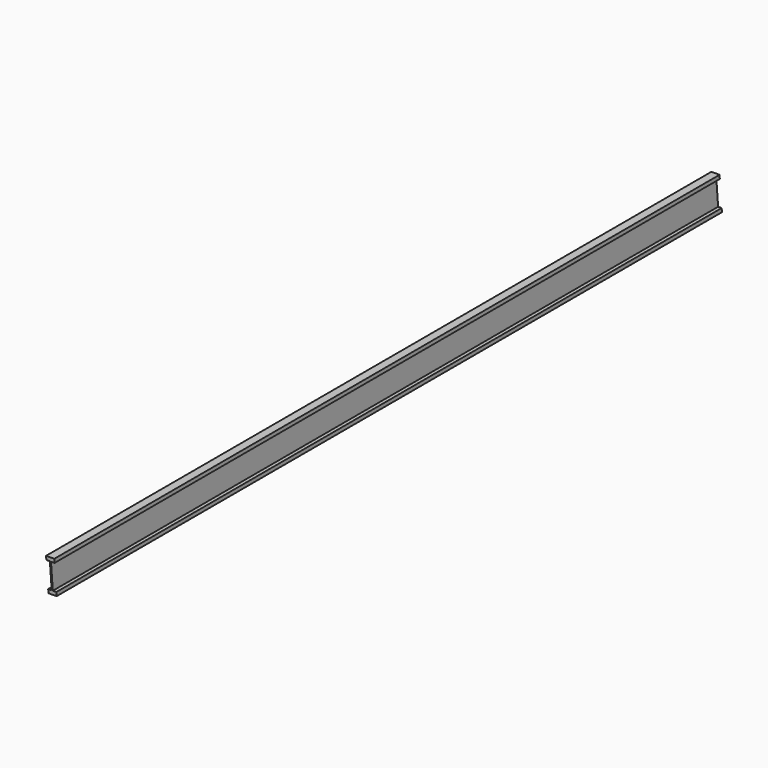
from build123d import *

# Parameters (mm, degrees)
F1_DEPTH = 7620
F3_DEPTH = 72.10199


with BuildPart() as f1:
    # F0 (on Front) → F1 (new body)
    with BuildSketch(Plane.XZ):
        Polygon((0, 33.655), (0, 0), (72.10099, 0), (72.10099, 33.655), (40.812995, 33.655), (40.812995, 267.97), (72.10099, 267.97), (72.10099, 301.625), (0, 301.625), (0, 267.97), (31.287995, 267.97), (31.287995, 33.655), align=None)
    extrude(amount=F1_DEPTH)

    # F2 (on face) → F3 (cut, through all)
    with BuildSketch(Plane.YZ.offset(72.10099)):
        Polygon((-7620, 0), (-7342.606046, 0), (-7368.73962, 301.625), (-7620, 301.625), align=None)
        Polygon((-26.133574, 301.625), (0, 0), (0, 301.625), align=None)
    extrude(amount=-F3_DEPTH, mode=Mode.SUBTRACT)


solid = f1.part
